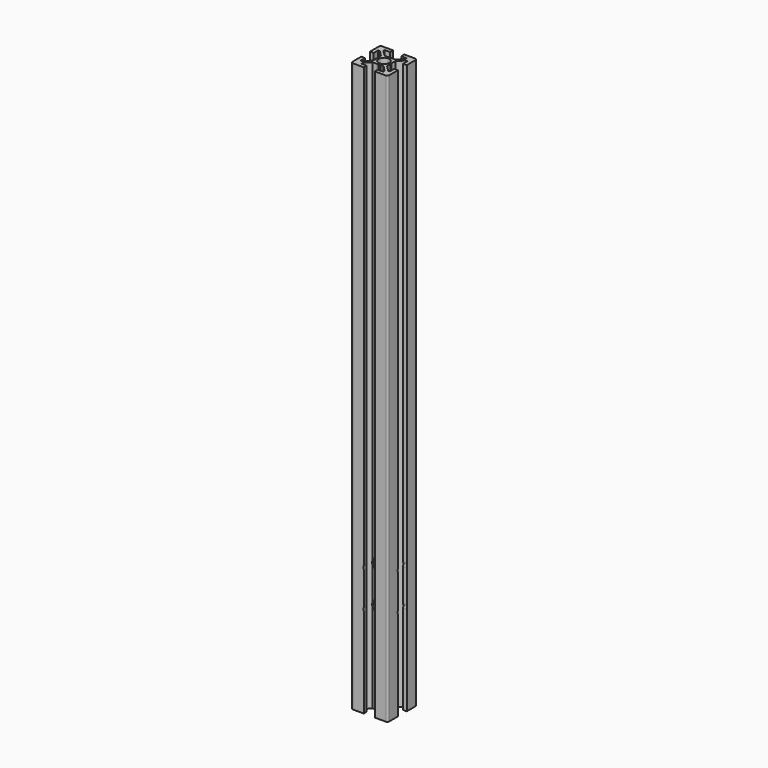
from build123d import *

# Parameters (mm, degrees)
SKETCH001_R     = 2.9
PAD_DEPTH       = 310
SKETCH_R        = 3.175
POCKET_DEPTH    = 20.001
SKETCH002_R     = 3.175
POCKET001_DEPTH = 20.001


with BuildPart() as part:
    # Sketch001 → Pad (new body)
    with BuildSketch(Plane.XY):
        with BuildLine():
            Line((-8, -3), (-10, -3))
            Line((-10, -3), (-10, -9))
            ThreePointArc((-10, -9), (-9.707107, -9.707107), (-9, -10))
            Line((-9, -10), (-3, -10))
            Line((-3, -10), (-3, -8))
            Line((-3, -8), (-6, -8))
            Line((-6, -8), (-6, -7.06066))
            Line((-6, -7.06066), (-2.93934, -4))
            Line((-2.93934, -4), (-0.65359, -4))
            ThreePointArc((-0.65359, -4), (-0.52418, -3.982963), (-0.40359, -3.933013))
            Line((-0.40359, -3.933013), (0, -3.7))
            Line((0, -3.7), (0.40359, -3.933013))
            ThreePointArc((0.40359, -3.933013), (0.65359, -4), (0.90359, -3.933013))
            Line((0.90359, -3.933013), (1.218886, -3.750977))
            Line((1.218886, -3.750977), (2.5, -4))
            Line((2.5, -4), (2.93934, -4))
            Line((2.93934, -4), (6, -7.06066))
            Line((6, -7.06066), (6, -8))
            Line((6, -8), (3, -8))
            Line((3, -8), (3, -10))
            Line((3, -10), (9, -10))
            ThreePointArc((9, -10), (9.707107, -9.707107), (10, -9))
            Line((10, -9), (10, -3))
            Line((10, -3), (8, -3))
            Line((8, -3), (8, -6))
            Line((8, -6), (7.06066, -6))
            Line((7.06066, -6), (4, -2.93934))
            Line((4, -2.93934), (4, -0.65359))
            ThreePointArc((4, -0.65359), (3.982963, -0.52418), (3.933013, -0.40359))
            Line((3.933013, -0.40359), (3.7, 0))
            Line((3.7, 0), (3.933013, 0.40359))
            ThreePointArc((3.933013, 0.40359), (4, 0.65359), (3.933013, 0.90359))
            Line((3.933013, 0.90359), (3.750977, 1.218886))
            Line((3.750977, 1.218886), (4, 2.5))
            Line((4, 2.5), (4, 2.93934))
            Line((4, 2.93934), (7.06066, 6))
            Line((7.06066, 6), (8, 6))
            Line((8, 6), (8, 3))
            Line((8, 3), (10, 3))
            Line((10, 3), (10, 9))
            ThreePointArc((10, 9), (9.707107, 9.707107), (9, 10))
            Line((9, 10), (3, 10))
            Line((3, 10), (3, 8))
            Line((3, 8), (6, 8))
            Line((6, 8), (6, 7.06066))
            Line((6, 7.06066), (2.93934, 4))
            Line((2.93934, 4), (0.65359, 4))
            ThreePointArc((0.65359, 4), (0.52418, 3.982963), (0.40359, 3.933013))
            Line((0.40359, 3.933013), (0, 3.7))
            Line((0, 3.7), (-0.40359, 3.933013))
            ThreePointArc((-0.40359, 3.933013), (-0.65359, 4), (-0.90359, 3.933013))
            Line((-0.90359, 3.933013), (-1.218886, 3.750977))
            Line((-1.218886, 3.750977), (-2.5, 4))
            Line((-2.5, 4), (-2.93934, 4))
            Line((-2.93934, 4), (-6, 7.06066))
            Line((-6, 7.06066), (-6, 8))
            Line((-6, 8), (-3, 8))
            Line((-3, 8), (-3, 10))
            Line((-3, 10), (-9, 10))
            ThreePointArc((-9, 10), (-9.707107, 9.707107), (-10, 9))
            Line((-10, 9), (-10, 3))
            Line((-10, 3), (-8, 3))
            Line((-8, 3), (-8, 6))
            Line((-8, 6), (-7.06066, 6))
            Line((-7.06066, 6), (-4, 2.93934))
            Line((-4, 2.93934), (-4, 0.65359))
            ThreePointArc((-4, 0.65359), (-3.982963, 0.52418), (-3.933013, 0.40359))
            Line((-3.933013, 0.40359), (-3.7, 0))
            Line((-3.7, 0), (-3.933013, -0.40359))
            ThreePointArc((-3.933013, -0.40359), (-4, -0.65359), (-3.933013, -0.90359))
            Line((-3.933013, -0.90359), (-3.750977, -1.218886))
            Line((-3.750977, -1.218886), (-4, -2.5))
            Line((-4, -2.5), (-4, -2.93934))
            Line((-4, -2.93934), (-7.06066, -6))
            Line((-7.06066, -6), (-8, -6))
            Line((-8, -6), (-8, -3))
        make_face()
        Circle(SKETCH001_R, mode=Mode.SUBTRACT)
    extrude(amount=PAD_DEPTH)

    # Sketch (on Face4 of Pad) → Pocket (cut, through all)
    with BuildSketch(Plane.XZ.offset(10)):
        with Locations((0, 70)):
            Circle(SKETCH_R)
        with Locations((0, 50)):
            Circle(SKETCH_R)
    extrude(amount=-POCKET_DEPTH, mode=Mode.SUBTRACT)

    # Sketch002 (on Face65 of Pocket) → Pocket001 (cut, through all)
    with BuildSketch(Plane(origin=(-10, 0, 0), x_dir=(0, -1, 0), z_dir=(-1, 0, 0))):
        with Locations((0, 50)):
            Circle(SKETCH002_R)
        with Locations((0, 70)):
            Circle(SKETCH002_R)
    extrude(amount=-POCKET001_DEPTH, mode=Mode.SUBTRACT)


solid = part.part
